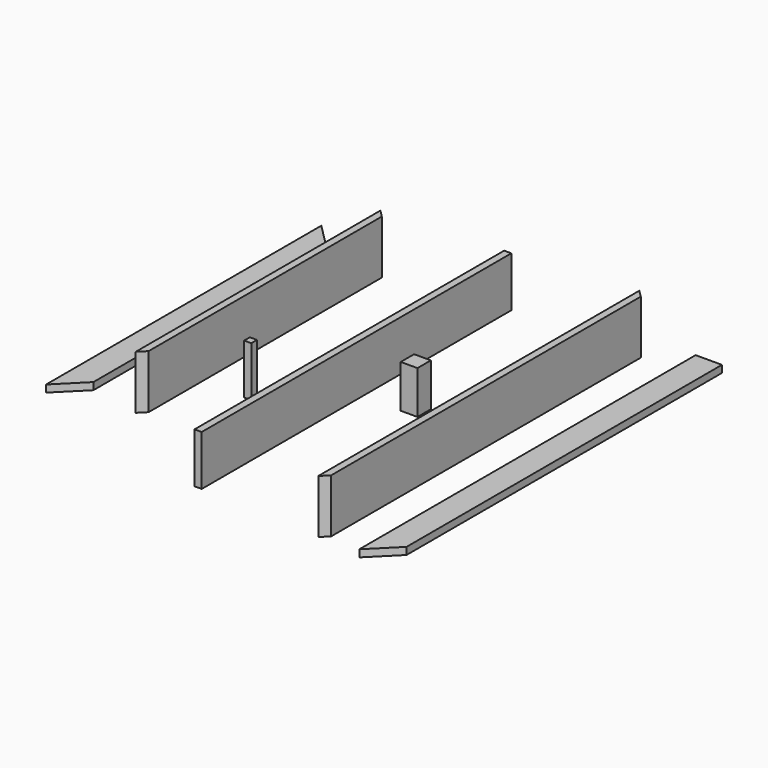
from build123d import *

# Parameters (mm, degrees)
F0_W      = 38.1
F0_H      = 2133.6
F1_DEPTH  = 285.75
F2_W      = 38.1
F2_H      = 1625.6
F3_DEPTH  = 285.75
F4_W      = 38.1
F4_H      = 2057.4
F5_DEPTH  = 266.7
F6_W      = 38.1
F6_H      = 38.1
F7_DEPTH  = 266.7
F8_W      = 88.9
F8_H      = 88.9
F9_DEPTH  = 228.6
F10_W     = 139.7
F10_H     = 2235.2
F11_DEPTH = 38.1
F12_W     = 139.7
F12_H     = 1828.8
F13_DEPTH = 38.1
F15_DEPTH = 285.751
F17_DEPTH = 285.751
F19_DEPTH = 38.101
F21_DEPTH = 38.101


with BuildPart() as f1:
    # F0 (on Top) → F1 (new body)
    with BuildSketch(Plane.XY):
        with Locations((0, 29.220348)):
            Rectangle(F0_W, F0_H)
    extrude(amount=F1_DEPTH)

    # F14 (on face) → F15 (cut, through all)
    with BuildSketch(Plane.XY.offset(285.75)):
        Polygon((19.05, -999.479652), (-19.05, -1037.579652), (19.05, -1037.579652), align=None)
        Polygon((19.05, 1057.920348), (19.05, 1096.020348), (-19.05, 1096.020348), align=None)
    extrude(amount=-F15_DEPTH, mode=Mode.SUBTRACT)


with BuildPart() as f3:
    # F2 (on Top) → F3 (new body)
    with BuildSketch(Plane.XY):
        with Locations((-1289.192454, 173.827569)):
            Rectangle(F2_W, F2_H)
    extrude(amount=F3_DEPTH)

    # F16 (on face) → F17 (cut, through all)
    with BuildSketch(Plane.XY.offset(285.75)):
        Polygon((-1270.142454, 986.627569), (-1308.242454, 986.627569), (-1270.142454, 948.527569), align=None)
        Polygon((-1308.242454, -638.972431), (-1270.142454, -638.972431), (-1270.142454, -600.872431), align=None)
    extrude(amount=-F17_DEPTH, mode=Mode.SUBTRACT)


with BuildPart() as f5:
    # F4 (on Top) → F5 (new body)
    with BuildSketch(Plane.XY):
        with Locations((-685.839234, 26.368862)):
            Rectangle(F4_W, F4_H)
    extrude(amount=F5_DEPTH)


with BuildPart() as f7:
    # F6 (on Top) → F7 (new body)
    with BuildSketch(Plane.XY):
        with Locations((-1023.695287, -231.63034)):
            Rectangle(F6_W, F6_H)
    extrude(amount=F7_DEPTH)


with BuildPart() as f9:
    # F8 (on Top) → F9 (new body)
    with BuildSketch(Plane.XY):
        with Locations((-416.393369, 107.158791)):
            Rectangle(F8_W, F8_H)
    extrude(amount=F9_DEPTH)


with BuildPart() as f11:
    # F10 (on Top) → F11 (new body)
    with BuildSketch(Plane.XY):
        with Locations((298.18053, 43.349066)):
            Rectangle(F10_W, F10_H)
    extrude(amount=F11_DEPTH)

    # F18 (on face) → F19 (cut, through all)
    with BuildSketch(Plane.XY.offset(38.1)):
        Polygon((368.03053, -934.550934), (228.33053, -1074.250934), (368.03053, -1074.250934), align=None)
    extrude(amount=-F19_DEPTH, mode=Mode.SUBTRACT)


with BuildPart() as f13:
    # F12 (on Top) → F13 (new body)
    with BuildSketch(Plane.XY):
        with Locations((-1642.440043, 184.694294)):
            Rectangle(F12_W, F12_H)
    extrude(amount=F13_DEPTH)

    # F20 (on face) → F21 (cut, through all)
    with BuildSketch(Plane.XY.offset(38.1)):
        Polygon((-1572.590043, 1099.094294), (-1712.290043, 1099.094294), (-1572.590043, 959.394294), align=None)
        Polygon((-1572.590043, -590.005706), (-1712.290043, -729.705706), (-1572.590043, -729.705706), align=None)
    extrude(amount=-F21_DEPTH, mode=Mode.SUBTRACT)


solid = Compound([f1.part, f3.part, f5.part, f7.part, f9.part, f11.part, f13.part])
